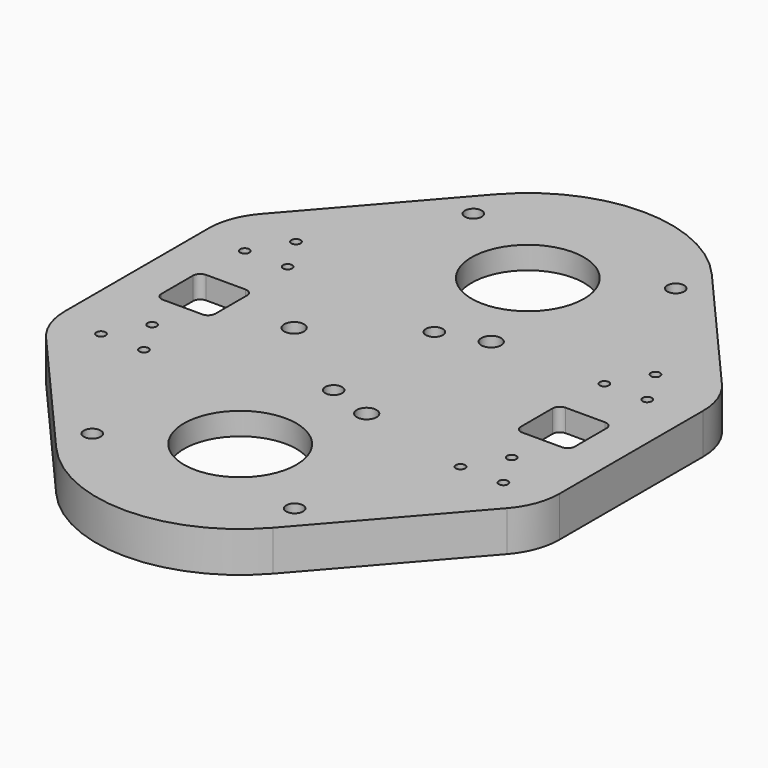
from build123d import *

# Parameters (mm, degrees)
F2_R     = 2.3876
F2_R_2   = 2.794
F2_R_3   = 1.3
F3_DEPTH = 6.35
F4_R     = 6.5
F5_DEPTH = 3.175
F7_DEPTH = 5.08
F8_R     = 15.875
F9_DEPTH = 25.4


with BuildPart() as f3:
    # F2 (on Top) → F3 (new body)
    with BuildSketch(Plane.XY):
        with BuildLine():
            ThreePointArc((30.6280254128, -77.5120508256), (38.0547799414, -65.063355973), (40.64, -50.8))
            ThreePointArc((40.64, -50.8), (-14.263355973, -12.7452200586), (-30.6280254128, -77.5120508256))
            ThreePointArc((-30.6280254128, -77.5120508256), (0, -91.44), (30.6280254128, -77.5120508256))
        make_face()
        with Locations((-28.596158833, -67.31)):
            Circle(F2_R, mode=Mode.SUBTRACT)
        with Locations((28.596158833, -67.31)):
            Circle(F2_R, mode=Mode.SUBTRACT)
        with Locations((0, -17.78)):
            Circle(F2_R, mode=Mode.SUBTRACT)
        with Locations((12.7, -21.9970452561)):
            Circle(F2_R_2, mode=Mode.SUBTRACT)
        with BuildLine():
            ThreePointArc((-30.6280254128, -77.5120508256), (-14.263355973, -12.7452200586), (40.64, -50.8))
            ThreePointArc((40.64, -50.8), (38.0547799414, -65.063355973), (30.6280254128, -77.5120508256))
            Line((30.6280254128, -77.5120508256), (65.1568869123, -37.9212738245))
            ThreePointArc((65.1568869123, -37.9212738245), (68.6381780975, -32.0859481123), (69.85, -25.4))
            Line((69.85, -25.4), (69.85, 25.4))
            ThreePointArc((69.85, 25.4), (68.6381780975, 32.0859481123), (65.1568869123, 37.9212738245))
            Line((65.1568869123, 37.9212738245), (30.6280254128, 77.5120508256))
            ThreePointArc((30.6280254128, 77.5120508256), (38.0547799414, 65.063355973), (40.64, 50.8))
            ThreePointArc((40.64, 50.8), (-14.263355973, 12.7452200586), (-30.6280254128, 77.5120508256))
            Line((-30.6280254128, 77.5120508256), (-65.1568869123, 37.9212738245))
            ThreePointArc((-65.1568869123, 37.9212738245), (-68.6381780975, 32.0859481123), (-69.85, 25.4))
            Line((-69.85, 25.4), (-69.85, 0))
            Line((-69.85, 0), (-69.85, -25.4))
            ThreePointArc((-69.85, -25.4), (-68.6381780975, -32.0859481123), (-65.1568869123, -37.9212738245))
            Line((-65.1568869123, -37.9212738245), (-30.6280254128, -77.5120508256))
        make_face()
        with Locations((-56.8621778265, -28.9)):
            Circle(F2_R_3, mode=Mode.SUBTRACT)
        with Locations((-44.7378221735, -28.9)):
            Circle(F2_R_3, mode=Mode.SUBTRACT)
        with Locations((-50.8, -18.4)):
            Circle(F2_R_3, mode=Mode.SUBTRACT)
        with Locations((44.7378221735, -28.9)):
            Circle(F2_R_3, mode=Mode.SUBTRACT)
        with Locations((56.8621778265, -28.9)):
            Circle(F2_R_3, mode=Mode.SUBTRACT)
        with Locations((50.8, -18.4)):
            Circle(F2_R_3, mode=Mode.SUBTRACT)
        with Locations((-56.8621778265, 21.9)):
            Circle(F2_R_3, mode=Mode.SUBTRACT)
        with Locations((-44.7378221735, 21.9)):
            Circle(F2_R_3, mode=Mode.SUBTRACT)
        with Locations((-50.8, 32.4)):
            Circle(F2_R_3, mode=Mode.SUBTRACT)
        with Locations((-25.4, 0)):
            Circle(F2_R_2, mode=Mode.SUBTRACT)
        with Locations((44.7378221735, 21.9)):
            Circle(F2_R_3, mode=Mode.SUBTRACT)
        with Locations((56.8621778265, 21.9)):
            Circle(F2_R_3, mode=Mode.SUBTRACT)
        with Locations((50.8, 32.4)):
            Circle(F2_R_3, mode=Mode.SUBTRACT)
        with BuildLine():
            ThreePointArc((40.64, 50.8), (38.0547799414, 65.063355973), (30.6280254128, 77.5120508256))
            ThreePointArc((30.6280254128, 77.5120508256), (0, 91.44), (-30.6280254128, 77.5120508256))
            ThreePointArc((-30.6280254128, 77.5120508256), (-14.263355973, 12.7452200586), (40.64, 50.8))
        make_face()
        with Locations((-28.596158833, 67.31)):
            Circle(F2_R, mode=Mode.SUBTRACT)
        with Locations((0, 17.78)):
            Circle(F2_R, mode=Mode.SUBTRACT)
        with Locations((12.7, 21.9970452561)):
            Circle(F2_R_2, mode=Mode.SUBTRACT)
        with Locations((28.596158833, 67.31)):
            Circle(F2_R, mode=Mode.SUBTRACT)
    extrude(amount=F3_DEPTH)

    # F4 (on Top) → F5 (cut)
    with BuildSketch(Plane.XY):
        with Locations((-25.4, 0)):
            Circle(F4_R)
        with Locations((12.7, 21.9970452561)):
            Circle(F4_R)
        with Locations((12.7, -21.9970452561)):
            Circle(F4_R)
    extrude(amount=F5_DEPTH, mode=Mode.SUBTRACT)

    # F6 (on Top) → F7 (join)
    with BuildSketch(Plane.XY):
        with BuildLine():
            ThreePointArc((-69.85, -25.4), (-68.6381780975, -32.0859481123), (-65.1568869123, -37.9212738245))
            Line((-65.1568869123, -37.9212738245), (-30.6280254128, -77.5120508256))
            ThreePointArc((-30.6280254128, -77.5120508256), (0, -91.44), (30.6280254128, -77.5120508256))
            Line((30.6280254128, -77.5120508256), (65.1568869123, -37.9212738245))
            ThreePointArc((65.1568869123, -37.9212738245), (68.6381780975, -32.0859481123), (69.85, -25.4))
            Line((69.85, -25.4), (69.85, 25.4))
            ThreePointArc((69.85, 25.4), (68.6381780975, 32.0859481123), (65.1568869123, 37.9212738245))
            Line((65.1568869123, 37.9212738245), (30.6280254128, 77.5120508256))
            ThreePointArc((30.6280254128, 77.5120508256), (0, 91.44), (-30.6280254128, 77.5120508256))
            Line((-30.6280254128, 77.5120508256), (-65.1568869123, 37.9212738245))
            ThreePointArc((-65.1568869123, 37.9212738245), (-68.6381780975, 32.0859481123), (-69.85, 25.4))
            Line((-69.85, 25.4), (-69.85, -25.4))
        make_face()
        with BuildLine():
            Line((-28.7137738245, -75.842547649), (-63.242635324, -36.2517706479))
            ThreePointArc((-63.242635324, -36.2517706479), (-66.2597543512, -31.194488364), (-67.31, -25.4))
            Line((-67.31, -25.4), (-67.31, 25.4))
            ThreePointArc((-67.31, 25.4), (-66.2597543512, 31.194488364), (-63.242635324, 36.2517706479))
            Line((-63.242635324, 36.2517706479), (-28.7137738245, 75.842547649))
            ThreePointArc((-28.7137738245, 75.842547649), (0, 88.9), (28.7137738245, 75.842547649))
            Line((28.7137738245, 75.842547649), (63.242635324, 36.2517706479))
            ThreePointArc((63.242635324, 36.2517706479), (66.2597543512, 31.194488364), (67.31, 25.4))
            Line((67.31, 25.4), (67.31, -25.4))
            ThreePointArc((67.31, -25.4), (66.2597543512, -31.194488364), (63.242635324, -36.2517706479))
            Line((63.242635324, -36.2517706479), (28.7137738245, -75.842547649))
            ThreePointArc((28.7137738245, -75.842547649), (0, -88.9), (-28.7137738245, -75.842547649))
        make_face(mode=Mode.SUBTRACT)
    extrude(amount=-F7_DEPTH)

    # F8 (on Top) → F9 (cut)
    with BuildSketch(Plane.XY):
        with Locations((0, -50.8)):
            Circle(F8_R)
        with Locations((0, 50.8)):
            Circle(F8_R)
        with BuildLine():
            ThreePointArc((-43.18, 5.588), (-43.7751590206, 7.0248409794), (-45.212, 7.62))
            Line((-45.212, 7.62), (-56.388, 7.62))
            ThreePointArc((-56.388, 7.62), (-57.8248409794, 7.0248409794), (-58.42, 5.588))
            Line((-58.42, 5.588), (-58.42, -5.588))
            ThreePointArc((-58.42, -5.588), (-57.8248409794, -7.0248409794), (-56.388, -7.62))
            Line((-56.388, -7.62), (-45.212, -7.62))
            ThreePointArc((-45.212, -7.62), (-43.7751590206, -7.0248409794), (-43.18, -5.588))
            Line((-43.18, -5.588), (-43.18, 5.588))
        make_face()
        with BuildLine():
            ThreePointArc((58.42, 5.588), (57.8248409794, 7.0248409794), (56.388, 7.62))
            Line((56.388, 7.62), (45.212, 7.62))
            ThreePointArc((45.212, 7.62), (43.7751590206, 7.0248409794), (43.18, 5.588))
            Line((43.18, 5.588), (43.18, -5.588))
            ThreePointArc((43.18, -5.588), (43.7751590206, -7.0248409794), (45.212, -7.62))
            Line((45.212, -7.62), (56.388, -7.62))
            ThreePointArc((56.388, -7.62), (57.8248409794, -7.0248409794), (58.42, -5.588))
            Line((58.42, -5.588), (58.42, 5.588))
        make_face()
    extrude(amount=F9_DEPTH, mode=Mode.SUBTRACT)


solid = f3.part
